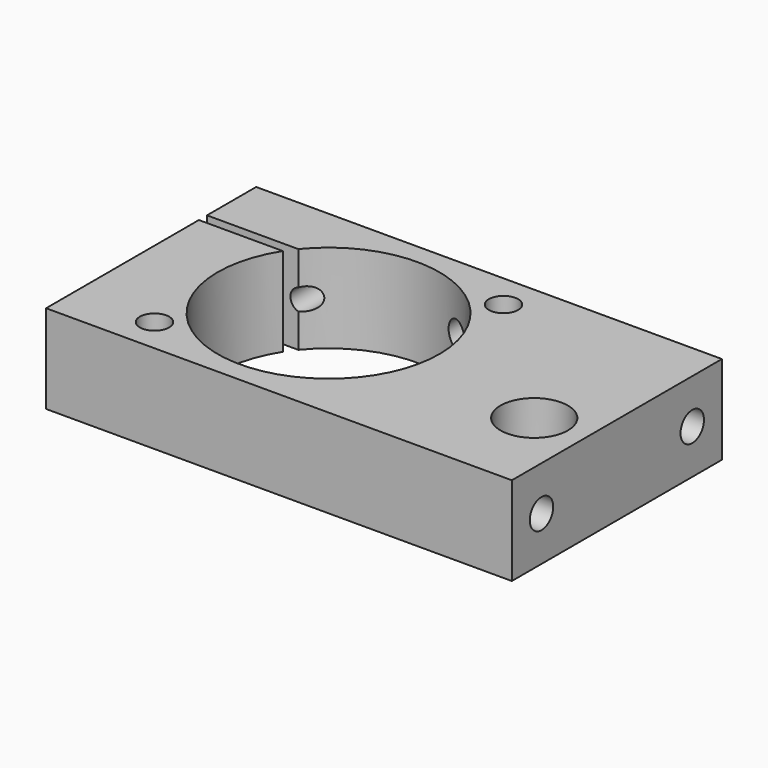
from build123d import *

# Parameters (mm, degrees)
F0_R      = 2.0955
F0_R_2    = 4.826
F1_DEPTH  = 12.7
F2_R      = 2.0955
F3_DEPTH  = 15.875
F4_R      = 5.7785
F5_DEPTH  = 1.4478
F6_R      = 2.413
F7_DEPTH  = 31.75
F8_R      = 3.96875
F9_DEPTH  = 4.7498
F10_R     = 1.5875
F10_R_2   = 2.0066
F11_DEPTH = 9.525


with BuildPart() as f1:
    # F0 (on Top) → F1 (new body)
    with BuildSketch(Plane.XY):
        with BuildLine():
            Line((33.3375, -18.796), (33.3375, 18.796))
            Line((33.3375, 18.796), (-33.3375, 18.796))
            Line((-33.3375, 18.796), (-33.3375, 9.9949))
            Line((-33.3375, 9.9949), (-20.271096, 9.9949))
            ThreePointArc((-20.271096, 9.9949), (4.938511, -9.285687), (-21.315194, 8.5471))
            Line((-21.315194, 8.5471), (-33.3375, 8.5471))
            Line((-33.3375, 8.5471), (-33.3375, -18.796))
            Line((-33.3375, -18.796), (33.3375, -18.796))
        make_face()
        with Locations((-21.7805, -13.843)):
            Circle(F0_R, mode=Mode.SUBTRACT)
        with Locations((25.8699, -5.461)):
            Circle(F0_R_2, mode=Mode.SUBTRACT)
        with Locations((6.0325, 13.843)):
            Circle(F0_R, mode=Mode.SUBTRACT)
    extrude(amount=F1_DEPTH)

    # F2 (on face) → F3 (cut)
    with BuildSketch(Plane.YZ.offset(33.3375)):
        with Locations((-13.4874, 6.35)):
            Circle(F2_R)
        with Locations((13.4874, 6.35)):
            Circle(F2_R)
    extrude(amount=-F3_DEPTH, mode=Mode.SUBTRACT)

    # F4 (on face) → F5 (cut)
    with BuildSketch(Plane(origin=(0, 0, 0), x_dir=(1, 0, 0), z_dir=(0, 0, -1))):
        with Locations((25.8699, 5.461)):
            Circle(F4_R)
    extrude(amount=-F5_DEPTH, mode=Mode.SUBTRACT)

    # F6 (on face) → F7 (cut)
    with BuildSketch(Plane(origin=(0, 18.796, 0), x_dir=(-1, 0, 0), z_dir=(0, 1, 0))):
        with Locations((26.9875, 6.35)):
            Circle(F6_R)
    extrude(amount=-F7_DEPTH, mode=Mode.SUBTRACT)

    # F8 (on face) → F9 (cut)
    with BuildSketch(Plane(origin=(0, 18.796, 0), x_dir=(-1, 0, 0), z_dir=(0, 1, 0))):
        with Locations((26.9875, 6.35)):
            Circle(F8_R)
    extrude(amount=-F9_DEPTH, mode=Mode.SUBTRACT)

    # F10 (on face) → F11 (cut)
    with BuildSketch(Plane(origin=(0, 18.796, 0), x_dir=(-1, 0, 0), z_dir=(0, 1, 0))):
        with Locations((19.80565, 6.35)):
            Circle(F10_R)
        with Locations((0.75565, 6.35)):
            Circle(F10_R_2)
    extrude(amount=-F11_DEPTH, mode=Mode.SUBTRACT)


solid = f1.part
